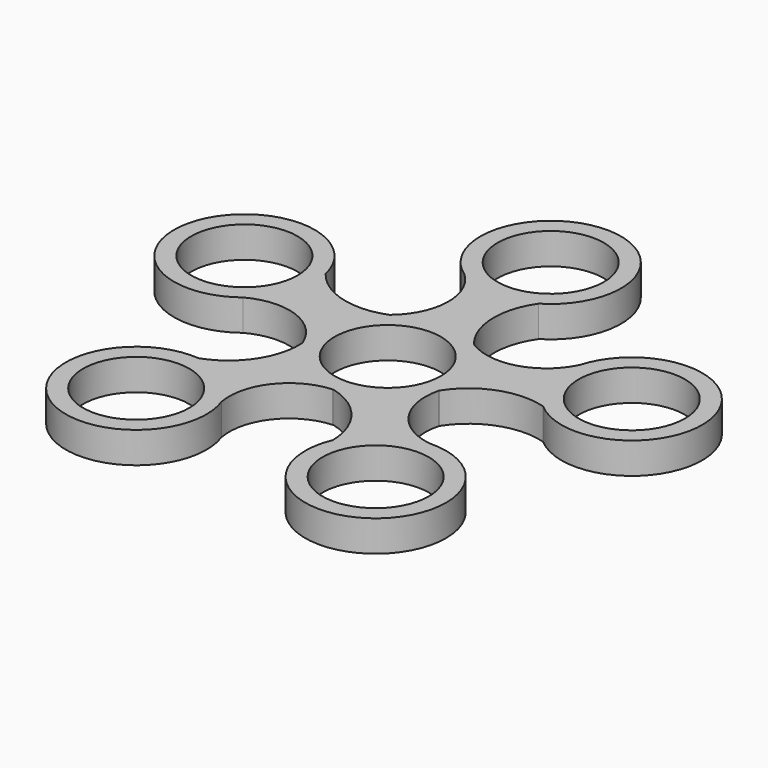
from build123d import *

# Parameters (mm, degrees)
F0_R     = 11.2522
F1_DEPTH = 6.604


with BuildPart() as f1:
    # F0 (on Top) → F1 (new body)
    with BuildSketch(Plane.XY):
        with BuildLine():
            ThreePointArc((-14.092391, -4.84822), (-14.279556, 4.265558), (-9.124219, 11.783435))
            ThreePointArc((-9.124219, 11.783435), (-18.623288, 11.319774), (-26.489014, 16.665583))
            ThreePointArc((-26.489014, 16.665583), (-55.042945, 18.352147), (-31.913737, 1.523266))
            ThreePointArc((-31.913737, 1.523266), (-21.571111, 2.342764), (-14.092391, -4.84822))
        make_face()
        with Locations((-41.013047, 13.325947)):
            Circle(F0_R, mode=Mode.SUBTRACT)
        with BuildLine():
            ThreePointArc((0.256143, -14.900843), (-8.469412, -12.262535), (-14.026252, -5.036366))
            ThreePointArc((-14.026252, -5.036366), (-16.520658, -14.213797), (-24.035467, -20.042601))
            ThreePointArc((-24.035467, -20.042601), (-34.463134, -46.677826), (-11.310599, -29.881053))
            ThreePointArc((-11.310599, -29.881053), (-8.893941, -19.791391), (0.256143, -14.900843))
        make_face()
        with Locations((-25.347457, -34.887782)):
            Circle(F0_R, mode=Mode.SUBTRACT)
        with BuildLine():
            ThreePointArc((14.250696, -4.361007), (9.045172, -11.844222), (0.455519, -14.896081))
            ThreePointArc((0.455519, -14.896081), (8.41296, -20.104384), (11.634278, -29.052591))
            ThreePointArc((11.634278, -29.052591), (33.743557, -47.20063), (24.923403, -19.990772))
            ThreePointArc((24.923403, -19.990772), (16.074353, -14.574517), (14.250696, -4.361007))
        make_face()
        with Locations((25.347457, -34.887782)):
            Circle(F0_R, mode=Mode.SUBTRACT)
        with BuildLine():
            ThreePointArc((26.714109, 17.526076), (18.828437, 10.783845), (8.551271, 12.205592))
            ThreePointArc((8.551271, 12.205592), (14.059636, 4.942404), (14.307778, -4.169918))
            ThreePointArc((14.307778, -4.169918), (21.720153, 1.788604), (31.225846, 2.087112))
            ThreePointArc((31.225846, 2.087112), (55.317799, 17.506232), (26.714109, 17.526076))
        make_face()
        with Locations((41.013047, 13.325947)):
            Circle(F0_R, mode=Mode.SUBTRACT)
        with BuildLine():
            ThreePointArc((-8.413175, 30.822483), (-4.437739, 21.239299), (-8.96572, 11.904478))
            ThreePointArc((-8.96572, 11.904478), (-9.045172, 11.844222), (-9.124219, 11.783435))
            ThreePointArc((-9.124219, 11.783435), (-14.279556, 4.265558), (-14.092391, -4.84822))
            ThreePointArc((-14.092391, -4.84822), (-14.059636, -4.942404), (-14.026252, -5.036366))
            ThreePointArc((-14.026252, -5.036366), (-8.469412, -12.262535), (0.256143, -14.900843))
            ThreePointArc((0.256143, -14.900843), (0.355839, -14.898795), (0.455519, -14.896081))
            ThreePointArc((0.455519, -14.896081), (9.045172, -11.844222), (14.250696, -4.361007))
            ThreePointArc((14.250696, -4.361007), (14.279556, -4.265558), (14.307778, -4.169918))
            ThreePointArc((14.307778, -4.169918), (14.059636, 4.942404), (8.551271, 12.205592))
            ThreePointArc((8.551271, 12.205592), (8.469412, 12.262535), (8.387174, 12.31893))
            ThreePointArc((8.387174, 12.31893), (5.010833, 21.209802), (7.664356, 30.342497))
            ThreePointArc((7.664356, 30.342497), (0.444724, 58.020077), (-8.413175, 30.822483))
        make_face()
        Circle(F0_R, mode=Mode.SUBTRACT)
        with Locations((0, 43.12367)):
            Circle(F0_R, mode=Mode.SUBTRACT)
    extrude(amount=F1_DEPTH)


solid = f1.part
